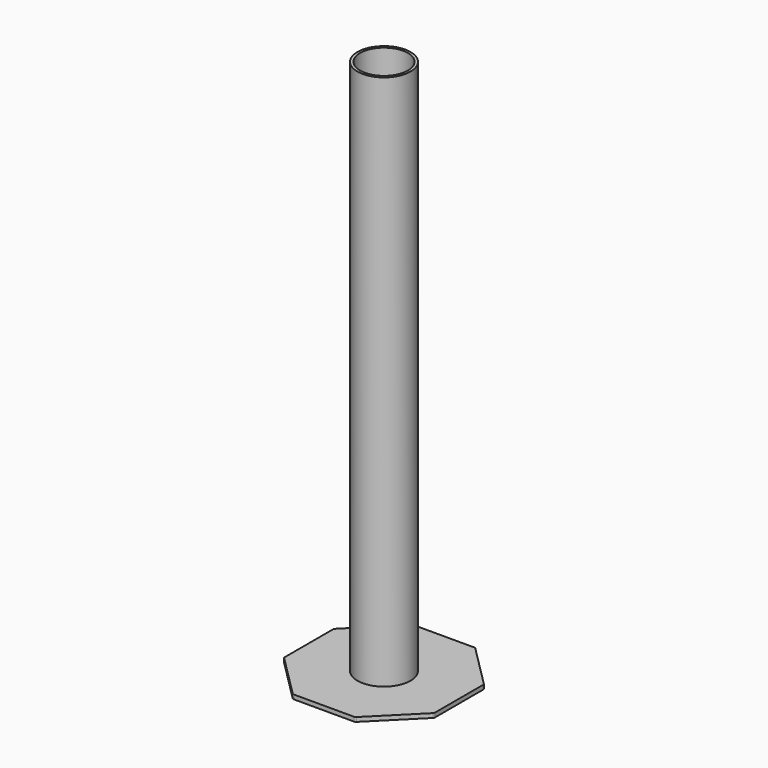
from build123d import *

# Parameters (mm, degrees)
F1_DEPTH = 8
F2_R     = 49.5
F2_R_2   = 44.500001
F3_DEPTH = 1000
F4_R     = 5


with BuildPart() as f1:
    # F0 (on Top) → F1 (new body)
    with BuildSketch(Plane.XY):
        Polygon((57.989899, 140), (-57.989899, 140), (-140, 57.989899), (-140, -57.989899), (-57.989899, -140), (57.989899, -140), (140, -57.989899), (140, 57.989899), align=None)
    extrude(amount=F1_DEPTH)

    # F2 (on face) → F3 (join)
    with BuildSketch(Plane.XY.offset(8)):
        Circle(F2_R)
        Circle(F2_R_2, mode=Mode.SUBTRACT)
    extrude(amount=F3_DEPTH)

    # F4
    f4_edges = [f1.edges().sort_by_distance(p)[0] for p in [
        (57.989899, 140, 4),
        (-57.989899, 140, 4),
        (-140, 57.989899, 4),
        (-140, -57.989899, 4),
        (-57.989899, -140, 4),
        (57.989899, -140, 4),
        (140, -57.989899, 4),
        (140, 57.989899, 4),
    ]]
    fillet(f4_edges, radius=F4_R)


solid = f1.part
